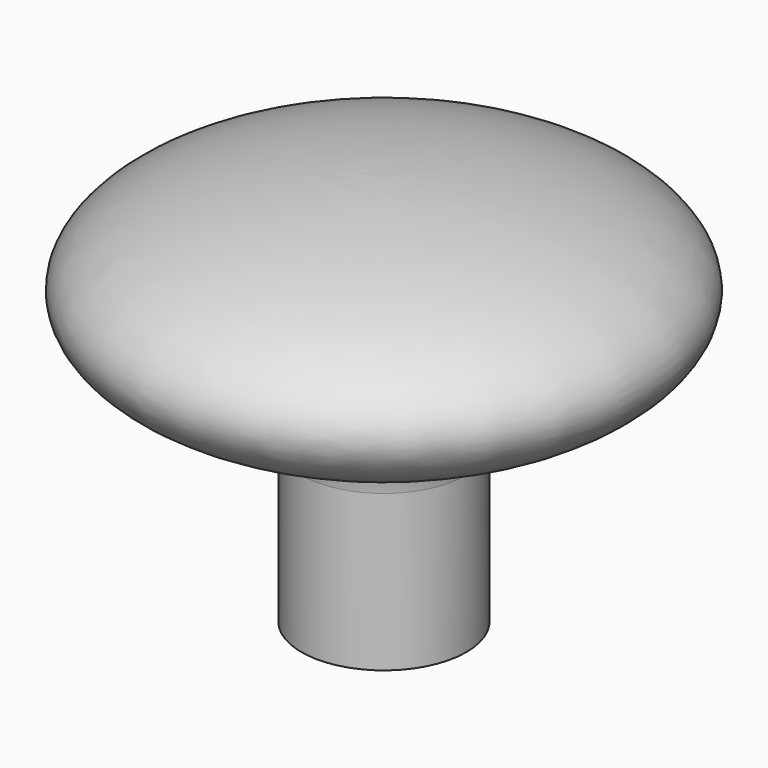
from build123d import *

# Parameters (mm, degrees)
F2_R = 3.81


with BuildPart() as f1:
    # F0 (on Front) → F1 (revolve)
    with BuildSketch(Plane.XZ):
        with BuildLine():
            Line((0, 7.62), (0, 3.81))
            add(Edge.make_bspline(
                [(16.51, 0), (16.51, 3.81), (0, 3.81)],
                knots=[0, 0, 0, 1.5707963268, 1.5707963268, 1.5707963268], degree=2, weights=[1, 0.7071067812, 1]))
            Line((16.51, 0), (20.32, 0))
            add(Edge.make_bspline(
                [(20.32, 0), (20.32, 7.62), (0, 7.62)],
                knots=[0, 0, 0, 1.5707963268, 1.5707963268, 1.5707963268], degree=2, weights=[1, 0.7071067812, 1]))
        make_face()
        with BuildLine():
            Line((0, 3.81), (0, -3.81))
            add(Edge.make_bspline(
                [(0, -3.81), (16.51, -3.81), (16.51, 0)],
                knots=[4.7123889804, 4.7123889804, 4.7123889804, 6.2831853072, 6.2831853072, 6.2831853072], degree=2, weights=[1, 0.7071067812, 1]))
            add(Edge.make_bspline(
                [(16.51, 0), (16.51, 3.81), (0, 3.81)],
                knots=[0, 0, 0, 1.5707963268, 1.5707963268, 1.5707963268], degree=2, weights=[1, 0.7071067812, 1]))
        make_face()
        with BuildLine():
            Line((0, -3.81), (0, -7.62))
            add(Edge.make_bspline(
                [(0, -7.62), (1.4036661743, -7.62), (2.794, -7.5476234629)],
                knots=[4.7123889804, 4.7123889804, 4.7123889804, 4.8503259768, 4.8503259768, 4.8503259768], degree=2, weights=[1, 0.9976226157, 1]))
            add(Edge.make_bspline(
                [(2.794, -7.5476234629), (4.6091869917, -7.4531303662), (6.35, -7.2383733281)],
                knots=[4.8503259768, 4.8503259768, 4.8503259768, 5.0302126843, 5.0302126843, 5.0302126843], degree=2, weights=[1, 0.9959578227, 1]))
            add(Edge.make_bspline(
                [(6.35, -7.2383733281), (20.32, -5.5149511072), (20.32, 0)],
                knots=[5.0302126843, 5.0302126843, 5.0302126843, 6.2831853072, 6.2831853072, 6.2831853072], degree=2, weights=[1, 0.8100925873, 1]))
            Line((20.32, 0), (16.51, 0))
            add(Edge.make_bspline(
                [(0, -3.81), (16.51, -3.81), (16.51, 0)],
                knots=[4.7123889804, 4.7123889804, 4.7123889804, 6.2831853072, 6.2831853072, 6.2831853072], degree=2, weights=[1, 0.7071067812, 1]))
        make_face()
        with BuildLine():
            add(Edge.make_bspline(
                [(2.794, -7.5476234629), (4.6091869917, -7.4531303662), (6.35, -7.2383733281)],
                knots=[4.8503259768, 4.8503259768, 4.8503259768, 5.0302126843, 5.0302126843, 5.0302126843], degree=2, weights=[1, 0.9959578227, 1]))
            Line((2.794, -7.5476234629), (2.794, -22.0783822325))
            ThreePointArc((2.794, -22.0783822325), (4.5734981233, -22.2650591674), (6.35, -22.4783733281))
            Line((6.35, -22.4783733281), (6.35, -7.2383733281))
        make_face()
    revolve(axis=Axis((0, 0, -7.1097490224), (0, 0, -1)))

    # F2
    f2_edges = [f1.edges().sort_by_distance(p)[0] for p in [
        (-6.35, 0, -7.238373),
    ]]
    fillet(f2_edges, radius=F2_R)


solid = f1.part
